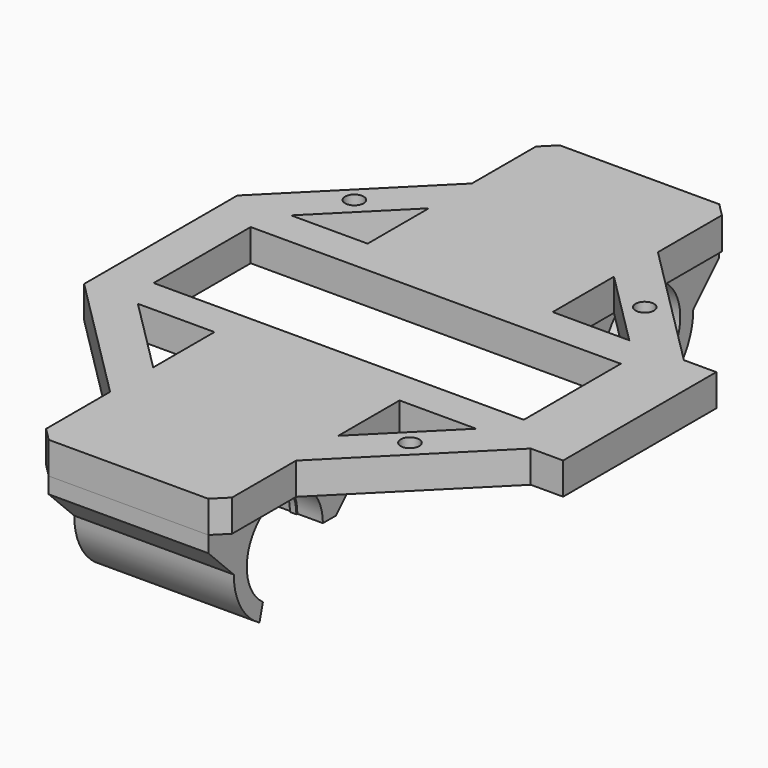
from build123d import *

# Parameters (mm, degrees)
SKETCH009_W           = 134.559871
SKETCH009_H           = 70
PAD007_DEPTH          = 10
PAD005_DEPTH          = 1
PAD003_DEPTH          = 25
PAD004_DEPTH          = 1
FUSION001_PITCH_ANGLE = -90
PAD002_DEPTH          = 1
PAD_DEPTH             = 25
PAD001_DEPTH          = 1
FUSION_PITCH_ANGLE    = -90
SKETCH006_R           = 1.45
SKETCH006_W           = 57.99992
SKETCH006_H           = 19
PAD008_DEPTH          = 5


with BuildPart() as pad007:
    # Sketch009 → Pad007 (new body)
    with BuildSketch(Plane.XY):
        with Locations((-19.570909, 35)):
            Rectangle(SKETCH009_W, SKETCH009_H)
    extrude(amount=-PAD007_DEPTH)


with BuildPart() as obj1:
    # Sketch005 → Pad005 (new body)
    with BuildSketch(Plane.XY.offset(48)):
        with BuildLine():
            Line((-5.876699, 4.245811), (-8.700179, 4.930201))
            ThreePointArc((0, 10), (-5.034779, 8.640081), (-8.700179, 4.930201))
            Line((0, 10), (4.98503, 15))
            Line((10, 15), (4.98503, 15))
            Line((10, -15), (10, 15))
            Line((4.98503, -15), (10, -15))
            Line((0, -10), (4.98503, -15))
            ThreePointArc((-8.67952, -4.966481), (-5.016731, -8.650573), (0, -10))
            Line((-5.849443, -4.283283), (-8.67952, -4.966481))
            ThreePointArc((-5.849443, -4.283283), (7.249963, 0.023168), (-5.876699, 4.245811))
        make_face()
    extrude(amount=PAD005_DEPTH)


with BuildPart() as pad003:
    # Sketch003 → Pad003 (new body)
    with BuildSketch(Plane.XY.offset(28)):
        with BuildLine():
            Line((-6.118347, 4.250686), (-8.700179, 4.930201))
            ThreePointArc((0, 10), (-5.034779, 8.640081), (-8.700179, 4.930201))
            Line((0, 10), (4.98503, 15))
            Line((10, 15), (4.98503, 15))
            Line((10, -15), (10, 15))
            Line((4.98503, -15), (10, -15))
            Line((0, -10), (4.98503, -15))
            ThreePointArc((-8.67952, -4.966481), (-5.016731, -8.650573), (0, -10))
            Line((-6.092112, -4.288201), (-8.67952, -4.966481))
            ThreePointArc((-6.092112, -4.288201), (7.449965, 0.022889), (-6.118347, 4.250686))
        make_face()
    extrude(amount=PAD003_DEPTH)


with BuildPart() as obj2:
    # Sketch004 → Pad004 (new body)
    with BuildSketch(Plane.XY.offset(32)):
        with BuildLine():
            Line((-5.876699, 4.245811), (-8.700179, 4.930201))
            ThreePointArc((0, 10), (-5.034779, 8.640081), (-8.700179, 4.930201))
            Line((0, 10), (4.98503, 15))
            Line((10, 15), (4.98503, 15))
            Line((10, -15), (10, 15))
            Line((4.98503, -15), (10, -15))
            Line((0, -10), (4.98503, -15))
            ThreePointArc((-8.67952, -4.966481), (-5.016731, -8.650573), (0, -10))
            Line((-5.849443, -4.283283), (-8.67952, -4.966481))
            ThreePointArc((-5.849443, -4.283283), (7.249963, 0.023168), (-5.876699, 4.245811))
        make_face()
    extrude(amount=PAD004_DEPTH)

    # Fusion001: union obj1, Pad003
    add(obj1.part)
    add(pad003.part)


with BuildPart() as obj2_1:
    # Fusion001 pitch: moved
    add(obj2.part.rotate(Axis((0, 0, 0), (0, 1, 0)), FUSION001_PITCH_ANGLE))


with BuildPart() as obj2_2:
    # Fusion001 placement: moved
    add(obj2_1.part.moved(Location((15, 70, 0))))


with BuildPart() as obj3:
    # Sketch002 → Pad002 (new body)
    with BuildSketch(Plane.XY.offset(48)):
        with BuildLine():
            Line((-5.876699, 4.245811), (-8.700179, 4.930201))
            ThreePointArc((0, 10), (-5.034779, 8.640081), (-8.700179, 4.930201))
            Line((0, 10), (4.98503, 15))
            Line((10, 15), (4.98503, 15))
            Line((10, -15), (10, 15))
            Line((4.98503, -15), (10, -15))
            Line((0, -10), (4.98503, -15))
            ThreePointArc((-8.67952, -4.966481), (-5.016731, -8.650573), (0, -10))
            Line((-5.849443, -4.283283), (-8.67952, -4.966481))
            ThreePointArc((-5.849443, -4.283283), (7.249963, 0.023168), (-5.876699, 4.245811))
        make_face()
    extrude(amount=PAD002_DEPTH)


with BuildPart() as pad:
    # Sketch → Pad (new body)
    with BuildSketch(Plane.XY.offset(28)):
        with BuildLine():
            Line((-6.118347, 4.250686), (-8.700179, 4.930201))
            ThreePointArc((0, 10), (-5.034779, 8.640081), (-8.700179, 4.930201))
            Line((0, 10), (4.98503, 15))
            Line((10, 15), (4.98503, 15))
            Line((10, -15), (10, 15))
            Line((4.98503, -15), (10, -15))
            Line((0, -10), (4.98503, -15))
            ThreePointArc((-8.67952, -4.966481), (-5.016731, -8.650573), (0, -10))
            Line((-6.092112, -4.288201), (-8.67952, -4.966481))
            ThreePointArc((-6.092112, -4.288201), (7.449965, 0.022889), (-6.118347, 4.250686))
        make_face()
    extrude(amount=PAD_DEPTH)


with BuildPart() as cut:
    # Sketch001 → Pad001 (new body)
    with BuildSketch(Plane.XY.offset(32)):
        with BuildLine():
            Line((-5.876699, 4.245811), (-8.700179, 4.930201))
            ThreePointArc((0, 10), (-5.034779, 8.640081), (-8.700179, 4.930201))
            Line((0, 10), (4.98503, 15))
            Line((10, 15), (4.98503, 15))
            Line((10, -15), (10, 15))
            Line((4.98503, -15), (10, -15))
            Line((0, -10), (4.98503, -15))
            ThreePointArc((-8.67952, -4.966481), (-5.016731, -8.650573), (0, -10))
            Line((-5.849443, -4.283283), (-8.67952, -4.966481))
            ThreePointArc((-5.849443, -4.283283), (7.249963, 0.023168), (-5.876699, 4.245811))
        make_face()
    extrude(amount=PAD001_DEPTH)

    # Fusion: union obj3, Pad
    add(obj3.part)
    add(pad.part)


with BuildPart() as cut_1:
    # Fusion pitch: moved
    add(cut.part.rotate(Axis((0, 0, 0), (0, 1, 0)), FUSION_PITCH_ANGLE))


with BuildPart() as cut_2:
    # Fusion placement: moved
    add(cut_1.part.moved(Location((15, 0, 0))))

    # Fusion002: union obj2
    add(obj2_2.part)

    # Cut: cut Pad007
    add(pad007.part, mode=Mode.SUBTRACT)


with BuildPart() as cut_3:
    # Cut placement: moved
    add(cut_2.part.moved(Location((0, 0, 2.5))))


with BuildPart() as pad008:
    # Sketch006 → Pad008 (new body)
    with BuildSketch(Plane.XY.offset(10)):
        Polygon((-37.925641, 85), (-12.925641, 85), (-10.851282, 82.925641), (-10.851282, 70.38842), (9.499959, 50.037179), (14.57432, 50.037179), (14.57432, 20.037179), (9.499959, 20.037179), (-10.925641, -0.388421), (-10.925641, -12.925641), (-13, -15), (-38, -15), (-40.074359, -12.925641), (-40.074359, -0.388421), (-60.4256, 19.962821), (-60.4256, 49.962821), (-40, 70.388421), (-40, 82.925641), align=None)
        with Locations((-48.5, 58)):
            Circle(SKETCH006_R, mode=Mode.SUBTRACT)
        with Locations((-3, 58)):
            Circle(SKETCH006_R, mode=Mode.SUBTRACT)
        with Locations((-3, 12)):
            Circle(SKETCH006_R, mode=Mode.SUBTRACT)
        with Locations((-24.92564, 34.962821)):
            Rectangle(SKETCH006_W, SKETCH006_H, mode=Mode.SUBTRACT)
        Polygon((-52, 19.962821), (-40, 19.962821), (-40, 7.962821), align=None, mode=Mode.SUBTRACT)
        Polygon((-11, 19.962821), (-11, 7.962821), (1, 19.962821), align=None, mode=Mode.SUBTRACT)
        Polygon((-40, 61.962821), (-40, 49.962821), (-52, 49.962821), align=None, mode=Mode.SUBTRACT)
        Polygon((-11, 61.962821), (-11, 49.962821), (1, 49.962821), align=None, mode=Mode.SUBTRACT)
    extrude(amount=PAD008_DEPTH)


solid = Compound([cut_3.part, pad008.part])
